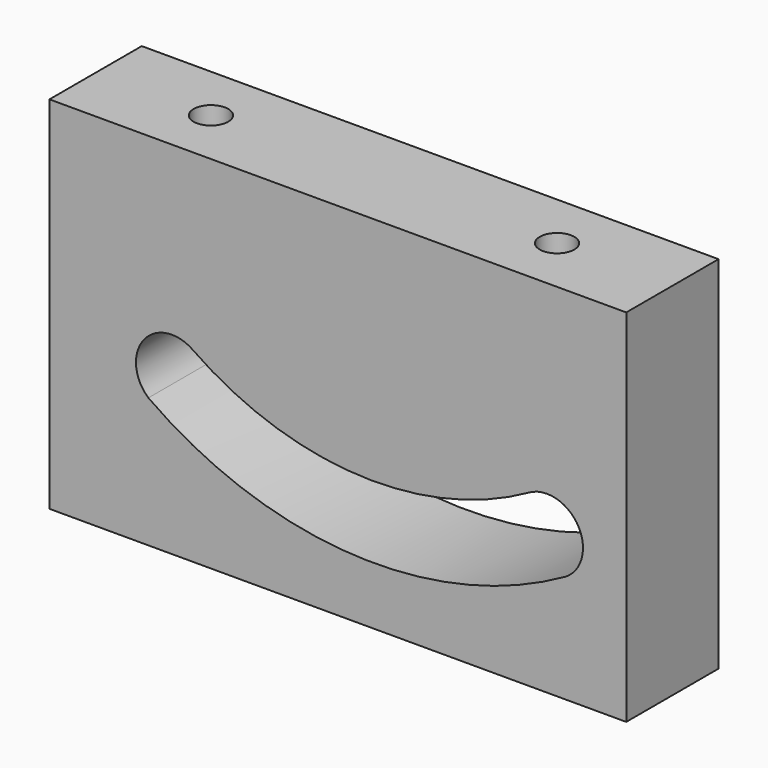
from build123d import *

# Parameters (mm, degrees)
F0_W     = 40
F0_H     = 25
F1_DEPTH = 4
F3_D     = 2.4
F3_DEPTH = 7.8
F3_TIP   = 0.7210327428


with BuildPart() as f1:
    # F0 (on Front) → F1 (new body, symmetric)
    with BuildSketch(Plane.XZ):
        with Locations((-2.0623784042, 1.6059692629)):
            Rectangle(F0_W, F0_H)
        with BuildLine():
            ThreePointArc((-12.1338069756, 2.0516295166), (-0.622257147, -1.8684853845), (11.2131317999, 0.9255526918))
            ThreePointArc((11.2131317999, 0.9255526918), (14.6039021457, -0.0061504502), (13.7087663913, -3.4067571995))
            ThreePointArc((13.7087663913, -3.4067571995), (-0.9671096254, -6.8494922608), (-15.2013966087, -1.887755102))
            ThreePointArc((-15.2013966087, -1.887755102), (-15.5348792926, 1.5359818505), (-12.1338069756, 2.0516295166))
        make_face(mode=Mode.SUBTRACT)
    extrude(amount=F1_DEPTH, both=True)

    # F3
    with Locations(Plane.XY.offset(14.1059692629)):
        with Locations((-14.0623778887, 0), (9.9376221113, 0)):
            Hole(F3_D / 2, depth=F3_DEPTH)
            with Locations((0, 0, -(F3_DEPTH + F3_TIP / 2))):  # 118° drill point
                Cone(0, F3_D / 2, F3_TIP, mode=Mode.SUBTRACT)


solid = f1.part
